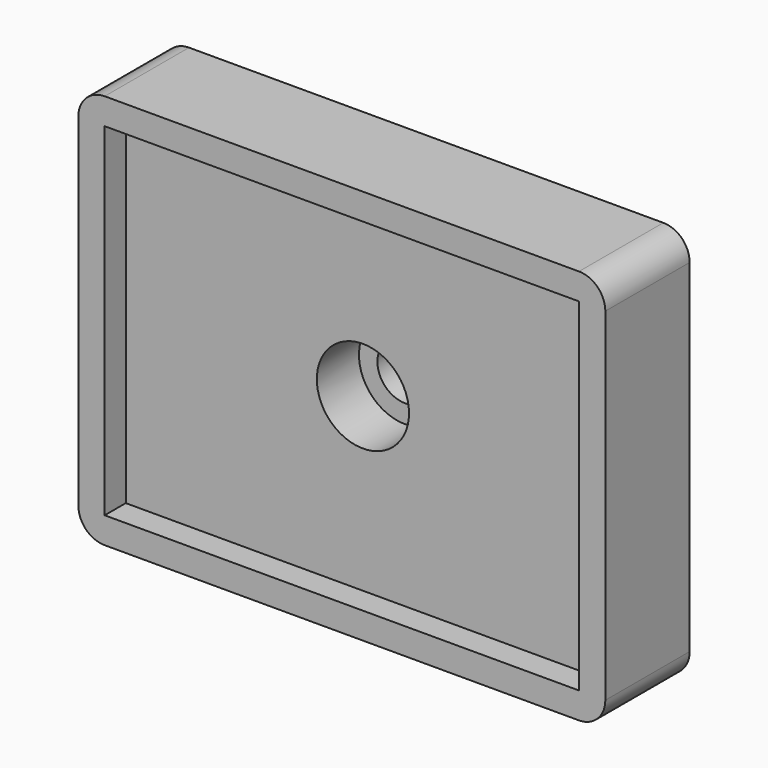
from build123d import *

# Parameters (mm, degrees)
F1_DEPTH       = 6
F2_DEPTH       = 2
F3_D           = 4.2
F3_DEPTH       = 15
F3_CBORE_D     = 7
F3_CBORE_DEPTH = 4
F4_R           = 2


with BuildPart() as f1:
    # F0 (on Front) → F1 (new body)
    with BuildSketch(Plane.XZ):
        Polygon((-38, 28), (-38, 15), (-38, 2), (-2, 2), (-2, 28), align=None)
        Polygon((-40, 0), (0, 0), (0, 30), (-40, 30), (-40, 15), align=None)
        Polygon((-38, 2), (-38, 15), (-38, 28), (-2, 28), (-2, 2), align=None, mode=Mode.SUBTRACT)
        Polygon((-38, 28), (-38, 15), (-38, 2), (-2, 2), (-2, 28), align=None)
    extrude(amount=-F1_DEPTH)

    # F0 (on Front) → F2 (join)
    with BuildSketch(Plane.XZ):
        Polygon((-40, 0), (0, 0), (0, 30), (-40, 30), (-40, 15), align=None)
        Polygon((-38, 2), (-38, 15), (-38, 28), (-2, 28), (-2, 2), align=None, mode=Mode.SUBTRACT)
    extrude(amount=F2_DEPTH)

    # F3
    with Locations(Plane.XZ):
        with Locations((-20, 15)):
            CounterBoreHole(F3_D / 2, F3_CBORE_D / 2, F3_CBORE_DEPTH, depth=F3_DEPTH)

    # F4
    f4_edges = [f1.edges().sort_by_distance(p)[0] for p in [
        (-40, 2, 30),
        (0, 2, 30),
        (0, 2, 0),
        (-40, 2, 0),
    ]]
    fillet(f4_edges, radius=F4_R)


solid = f1.part
